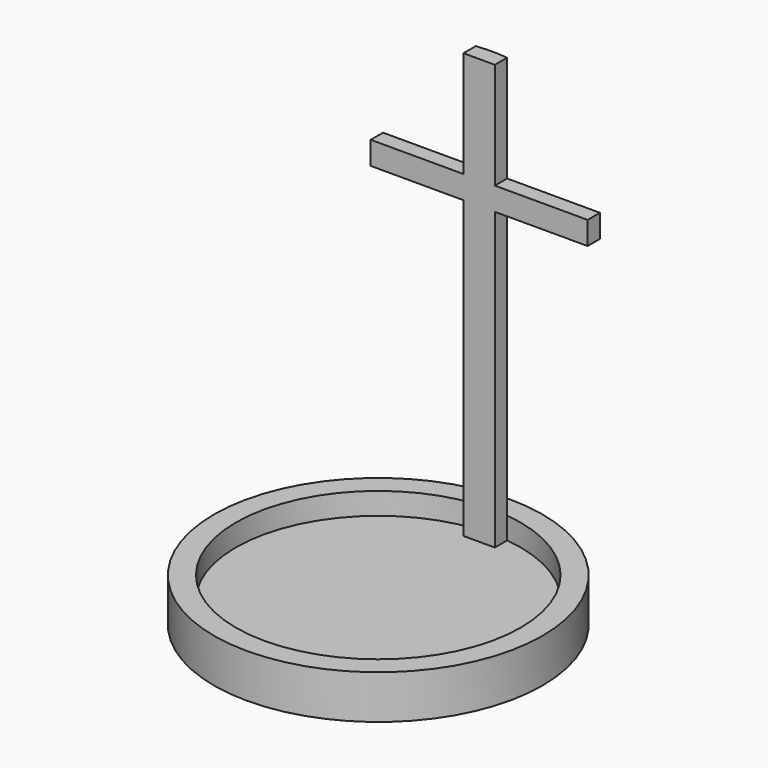
from build123d import *

# Parameters (mm, degrees)
F0_R     = 38.1
F1_DEPTH = 10.16
F2_T     = -5.08
F4_DEPTH = 98.552
F5_W     = 3.5759293783
F5_H     = 5.342617631
F6_DEPTH = 25.146


with BuildPart() as f1:
    # F0 (on Top) → F1 (new body)
    with BuildSketch(Plane.XY):
        Circle(F0_R)
    extrude(amount=F1_DEPTH)

    # F2
    f2_openings = [f1.faces().sort_by_distance(p)[0] for p in [
        (0, 0, 10.16),
    ]]
    offset(amount=F2_T, openings=f2_openings)

    # F3 (on face) → F4 (join)
    with BuildSketch(Plane.XY.offset(5.08)):
        with BuildLine():
            Line((-3.6385965068, 29.2429830879), (3.6385965068, 29.2429830879))
            Line((3.6385965068, 29.2429830879), (3.6385965068, 32.8189124661))
            ThreePointArc((3.6385965068, 32.8189124661), (0, 33.02), (-3.6385965068, 32.8189124661))
            Line((-3.6385965068, 32.8189124661), (-3.6385965068, 29.2429830879))
        make_face()
    extrude(amount=F4_DEPTH)

    # F5 (on Right) → F6 (join, symmetric)
    with BuildSketch(Plane.YZ):
        with Locations((31.030947777, 76.2954577804)):
            Rectangle(F5_W, F5_H)
    extrude(amount=F6_DEPTH, both=True)


solid = f1.part
